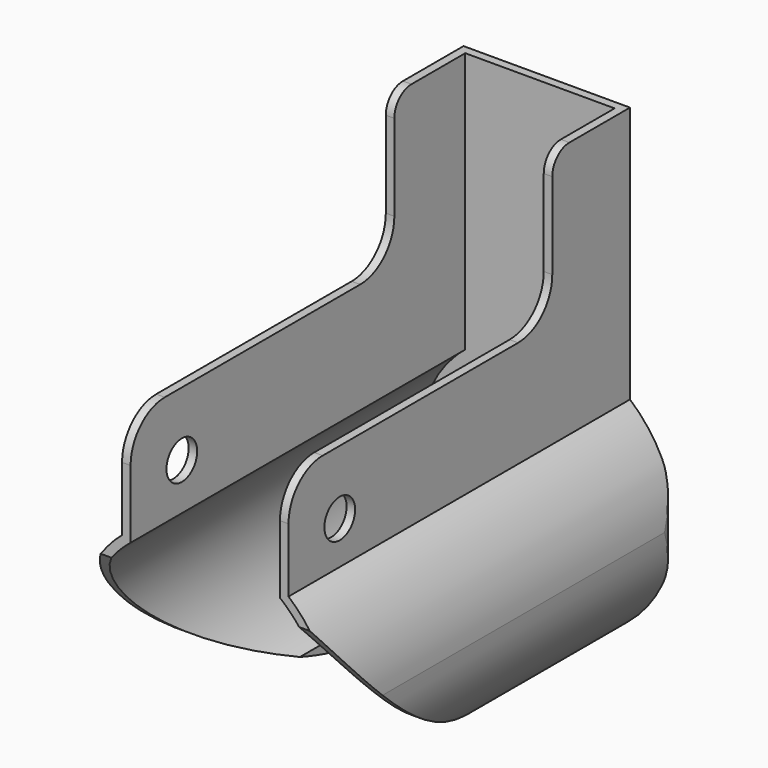
from build123d import *

# Parameters (mm, degrees)
F1_DEPTH  = 108
F3_DEPTH  = 150
F5_DEPTH  = 98
F7_DEPTH  = 100
F8_DEPTH  = 100
F10_DEPTH = 100
F11_R     = 10
F12_DEPTH = 25
F14_DEPTH = 100


with BuildPart() as f1:
    # F0 (on Top) → F1 (new body)
    with BuildSketch(Plane.XY):
        with BuildLine():
            Line((17.5, -50), (30, -50))
            Line((30, -50), (30, 47))
            ThreePointArc((30, 47), (29.1213203436, 49.1213203436), (27, 50))
            Line((27, 50), (-27, 50))
            ThreePointArc((-27, 50), (-29.1213203436, 49.1213203436), (-30, 47))
            Line((-30, 47), (-30, -50))
            Line((-30, -50), (-17.5, -50))
            Line((-17.5, -50), (-17.5, -48))
            Line((-17.5, -48), (-17.5, 48))
            Line((-17.5, 48), (17.5, 48))
            Line((17.5, 48), (17.5, -48))
            Line((17.5, -48), (17.5, -50))
        make_face()
    extrude(amount=F1_DEPTH)

    # F2 (on face) → F3 (cut)
    with BuildSketch(Plane.XZ.offset(50)):
        with BuildLine():
            Line((30, 0), (30, 25))
            ThreePointArc((30, 25), (26.4338203685, 10.8136283454), (16.5831239518, 0))
            Line((16.5831239518, 0), (30, 0))
        make_face()
        with BuildLine():
            ThreePointArc((-17.5, 0.633014138), (-26.6926956301, 11.3069360624), (-30, 25))
            Line((-30, 25), (-30, 0))
            Line((-30, 0), (-17.5, 0))
            Line((-17.5, 0), (-17.5, 0.633014138))
        make_face()
        with BuildLine():
            ThreePointArc((-16.5831239518, 0), (-17.0445009109, 0.3122502302), (-17.5, 0.633014138))
            Line((-17.5, 0.633014138), (-17.5, 0))
            Line((-17.5, 0), (-16.5831239518, 0))
        make_face()
    extrude(amount=-F3_DEPTH, mode=Mode.SUBTRACT)

    # F4 (on face) → F5 (cut)
    with BuildSketch(Plane.XZ.offset(50)):
        with BuildLine():
            ThreePointArc((-19.5, 45.0935312974), (-27.9682339411, 23.6666245026), (-17.5, 3.1425070056))
            Line((-17.5, 3.1425070056), (-17.5, 46.8574929944))
            ThreePointArc((-17.5, 46.8574929944), (-18.5210121272, 45.9993359367), (-19.5, 45.0935312974))
        make_face()
        with BuildLine():
            Line((17.5, 46.8574929944), (17.5, 3.1425070056))
            ThreePointArc((17.5, 3.1425070056), (25.2388589282, 12.875644347), (28, 25))
            ThreePointArc((28, 25), (25.7875939165, 35.9087121146), (19.5, 45.0935312974))
            ThreePointArc((19.5, 45.0935312974), (18.5210121272, 45.9993359367), (17.5, 46.8574929944))
        make_face()
    extrude(amount=-F5_DEPTH, mode=Mode.SUBTRACT)

    # F6 (on face) → F7 (cut)
    with BuildSketch(Plane.YZ.offset(30)):
        with BuildLine():
            Line((-50, 42.3148013651), (-50, 0))
            Line((-50, 0), (10, 0))
            ThreePointArc((10, 0), (-24.0239311691, 15.4516934038), (-50, 42.3148013651))
        make_face()
    extrude(amount=-F7_DEPTH, mode=Mode.SUBTRACT)

    # F4 (on face) → F8 (cut)
    with BuildSketch(Plane.XZ.offset(50)):
        with BuildLine():
            Line((-30, 108), (-30, 25))
            ThreePointArc((-30, 25), (-27.2488531869, 37.549900398), (-19.5, 47.7980262304))
            Line((-19.5, 47.7980262304), (-19.5, 108))
            Line((-19.5, 108), (-30, 108))
        make_face()
        with BuildLine():
            ThreePointArc((19.5, 47.7980262304), (27.2488531869, 37.549900398), (30, 25))
            Line((30, 25), (30, 108))
            Line((30, 108), (19.5, 108))
            Line((19.5, 108), (19.5, 47.7980262304))
        make_face()
    extrude(amount=-F8_DEPTH, mode=Mode.SUBTRACT)

    # F9 (on face) → F10 (cut)
    with BuildSketch(Plane.YZ.offset(19.5)):
        with BuildLine():
            ThreePointArc((-50, 62.7980262304), (-47.0710678119, 69.8690940422), (-40, 72.7980262304))
            Line((-40, 72.7980262304), (17.2408529371, 72.7980262304))
            ThreePointArc((17.2408529371, 72.7980262304), (24.311920749, 75.7269584185), (27.2408529371, 82.7980262304))
            Line((27.2408529371, 82.7980262304), (27.2408529371, 103))
            ThreePointArc((27.2408529371, 103), (28.7053190312, 106.5355339059), (32.2408529371, 108))
            Line((32.2408529371, 108), (-50, 108))
            Line((-50, 108), (-50, 62.7980262304))
        make_face()
    extrude(amount=-F10_DEPTH, mode=Mode.SUBTRACT)

    # F11 (on face) → F12 (cut)
    with BuildSketch(Plane(origin=(0, 50, 0), x_dir=(-1, 0, 0), z_dir=(0, 1, 0))):
        with Locations((0, 25)):
            Circle(F11_R)
    extrude(amount=-F12_DEPTH, mode=Mode.SUBTRACT)

    # F13 (on face) → F14 (cut)
    with BuildSketch(Plane(origin=(-19.5, 0, 0), x_dir=(0, -1, 0), z_dir=(-1, 0, 0))):
        with BuildLine():
            Line((35, 57.7980262304), (39.5, 57.7980262304))
            ThreePointArc((39.5, 57.7980262304), (38.1819805153, 60.9800067457), (35, 62.2980262304))
            Line((35, 62.2980262304), (35, 57.7980262304))
        make_face()
        with BuildLine():
            ThreePointArc((35, 62.2980262304), (31.8180194847, 54.616045715), (39.5, 57.7980262304))
            Line((39.5, 57.7980262304), (35, 57.7980262304))
            Line((35, 57.7980262304), (35, 62.2980262304))
        make_face()
    extrude(amount=-F14_DEPTH, mode=Mode.SUBTRACT)


solid = f1.part
